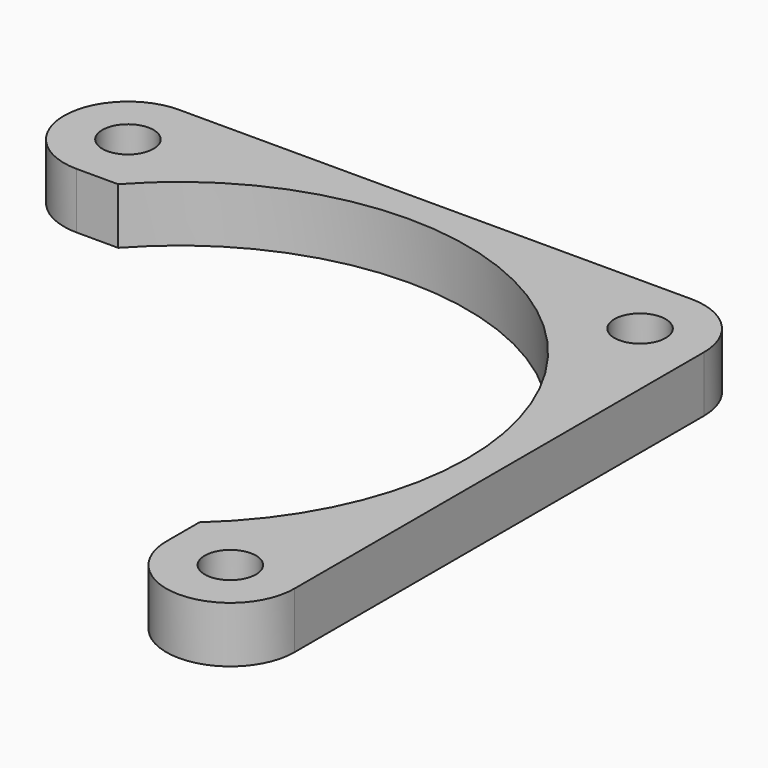
from build123d import *

# Parameters (mm, degrees)
F0_R     = 1.6
F1_DEPTH = 3.5


with BuildPart() as f1:
    # F0 (on Top) → F1 (new body)
    with BuildSketch(Plane.XY):
        with BuildLine():
            Line((16, 20), (-16, 20))
            ThreePointArc((-16, 20), (-20, 16), (-16, 12))
            Line((-16, 12), (-13.416408, 12))
            ThreePointArc((-13.416408, 12), (12.727922, 12.727922), (12, -13.416408))
            Line((12, -13.416408), (12, -16))
            ThreePointArc((12, -16), (16, -20), (20, -16))
            Line((20, -16), (20, 16))
            ThreePointArc((20, 16), (18.828427, 18.828427), (16, 20))
        make_face()
        with Locations((16, -16)):
            Circle(F0_R, mode=Mode.SUBTRACT)
        with Locations((-16, 16)):
            Circle(F0_R, mode=Mode.SUBTRACT)
        with Locations((16, 16)):
            Circle(F0_R, mode=Mode.SUBTRACT)
    extrude(amount=F1_DEPTH)


solid = f1.part
